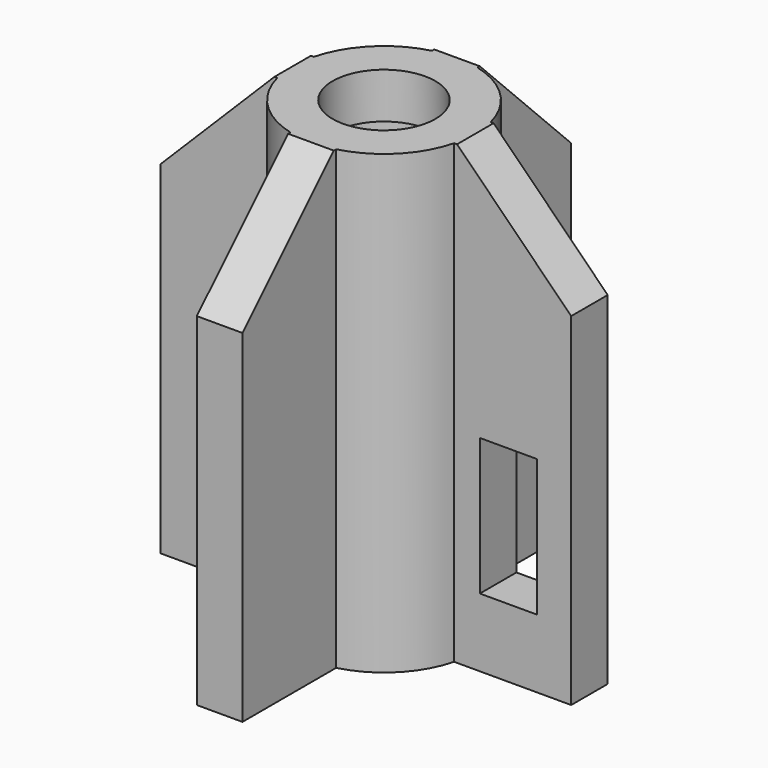
from build123d import *

# Parameters (mm, degrees)
PAD_DEPTH            = 20
SKETCH001_W          = 2.5
SKETCH001_H          = 6
POCKET_DEPTH         = 10.001
SKETCH002_R          = 3.25
POCKET001_DEPTH      = 18
SKETCH003_R          = 2.25
POCKET002_DEPTH      = 2
CHAMFER_SIZE         = 5
BODY_PLACEMENT_ANGLE = 180


with BuildPart() as part:
    # Sketch → Pad (new body)
    with BuildSketch(Plane.XY):
        with BuildLine():
            ThreePointArc((-3.872983, -1), (-2.828427, -2.828427), (-1, -3.872983))
            Line((-1, -9), (-1, -3.872983))
            Line((1, -9), (-1, -9))
            Line((1, -3.872983), (1, -9))
            ThreePointArc((1, -3.872983), (2.828427, -2.828427), (3.872983, -1))
            Line((9, -1), (3.872983, -1))
            Line((9, 1), (9, -1))
            Line((3.872983, 1), (9, 1))
            ThreePointArc((3.872983, 1), (2.828427, 2.828427), (1, 3.872983))
            Line((1, 9), (1, 3.872983))
            Line((-1, 9), (1, 9))
            Line((-1, 3.872983), (-1, 9))
            ThreePointArc((-1, 3.872983), (-2.828427, 2.828427), (-3.872983, 1))
            Line((-9, 1), (-3.872983, 1))
            Line((-9, -1), (-9, 1))
            Line((-3.872983, -1), (-9, -1))
        make_face()
    extrude(amount=PAD_DEPTH)

    # Sketch001 (on Face6 of Pad) → Pocket (cut, through all)
    with BuildSketch(Plane.XZ.offset(1)):
        with Locations((6.25, 14)):
            Rectangle(SKETCH001_W, SKETCH001_H)
    extrude(amount=-POCKET_DEPTH, mode=Mode.SUBTRACT)

    # Sketch002 (on Face5 of Pocket) → Pocket001 (cut)
    with BuildSketch(Plane.XY.offset(20)):
        Circle(SKETCH002_R)
    extrude(amount=-POCKET001_DEPTH, mode=Mode.SUBTRACT)

    # Sketch003 (on Face4 of Pocket001) → Pocket002 (cut)
    with BuildSketch(Plane(origin=(0, 0, 0), x_dir=(1, 0, 0), z_dir=(0, 0, -1))):
        Circle(SKETCH003_R)
    extrude(amount=-POCKET002_DEPTH, mode=Mode.SUBTRACT)

    # Chamfer
    chamfer_edges = [part.edges().sort_by_distance(p)[0] for p in [
        (-9, 0, 0),
        (0, -9, 0),
        (9, 0, 0),
        (0, 9, 0),
    ]]
    chamfer(chamfer_edges, length=CHAMFER_SIZE)


with BuildPart() as part_1:
    # Body placement: moved
    add(part.part.moved(Location((0, 0, 31))).rotate(Axis((0, 0, 31), (1, 0, 0)), BODY_PLACEMENT_ANGLE))


solid = part_1.part
